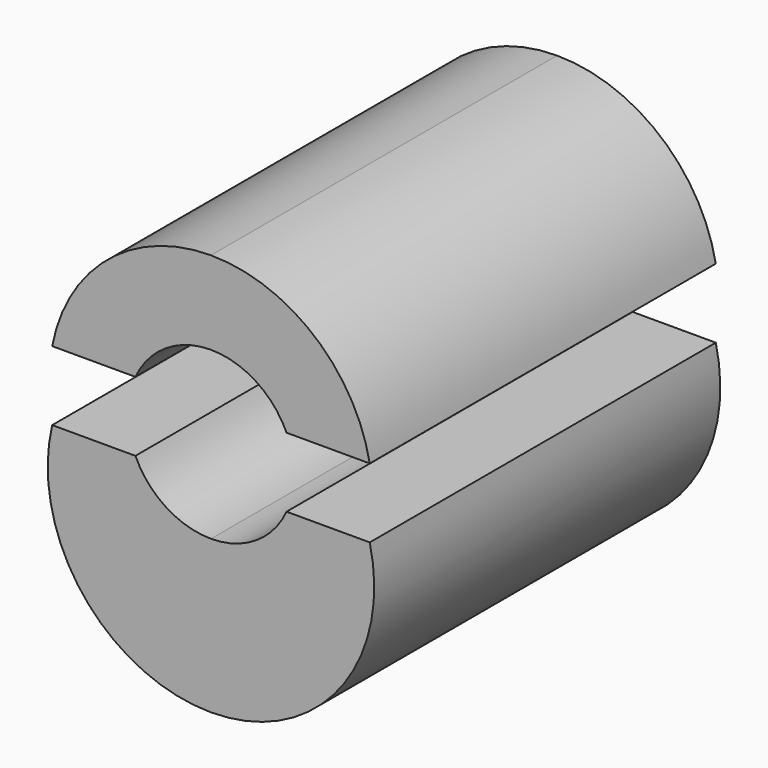
from build123d import *

# Parameters (mm, degrees)
F1_DEPTH = 26


with BuildPart() as f1:
    # F0 (on Front) → F1 (new body)
    with BuildSketch(Plane.XZ):
        with BuildLine():
            ThreePointArc((0, 5), (2.697776, 4.209751), (4.542786, 2.088801))
            Line((4.542786, 2.088801), (9.542786, 2.088801))
            ThreePointArc((9.542786, 2.088801), (6.197819, 7.765009), (0, 10))
            Line((0, 10), (0, 5))
        make_face()
        with BuildLine():
            ThreePointArc((-4.542786, 2.088801), (-2.697776, 4.209751), (0, 5))
            Line((0, 5), (0, 10))
            ThreePointArc((0, 10), (-6.197819, 7.765009), (-9.542786, 2.088801))
            Line((-9.542786, 2.088801), (-4.542786, 2.088801))
        make_face()
        with BuildLine():
            Line((9.542786, -2.088801), (4.542786, -2.088801))
            ThreePointArc((4.542786, -2.088801), (2.697776, -4.209751), (0, -5))
            ThreePointArc((0, -5), (-2.697776, -4.209751), (-4.542786, -2.088801))
            Line((-4.542786, -2.088801), (-9.542786, -2.088801))
            ThreePointArc((-9.542786, -2.088801), (0, -14.186004), (9.542786, -2.088801))
        make_face()
        with BuildLine():
            Line((9.542786, -2.088801), (4.542786, -2.088801))
            ThreePointArc((4.542786, -2.088801), (2.697776, -4.209751), (0, -5))
            ThreePointArc((0, -5), (-2.697776, -4.209751), (-4.542786, -2.088801))
            Line((-4.542786, -2.088801), (-9.542786, -2.088801))
            ThreePointArc((-9.542786, -2.088801), (0, -14.186004), (9.542786, -2.088801))
        make_face()
    extrude(amount=F1_DEPTH)


solid = f1.part
